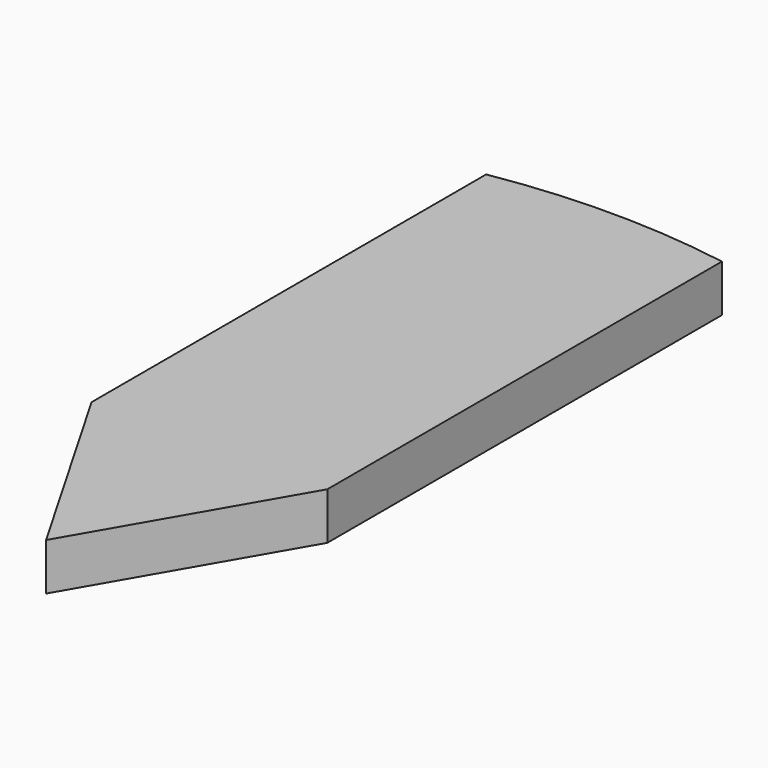
from build123d import *

# Parameters (mm, degrees)
F1_DEPTH = 2


with BuildPart() as f1:
    # F0 (on Top) → F1 (new body)
    with BuildSketch(Plane.XY):
        with BuildLine():
            Line((5, 8.660254), (5, 29.580399))
            ThreePointArc((5, 29.580399), (0, 30), (-5, 29.580399))
            Line((-5, 29.580399), (-5, 8.660254))
            Line((-5, 8.660254), (0, 0))
            Line((0, 0), (5, 8.660254))
        make_face()
    extrude(amount=F1_DEPTH)


solid = f1.part
